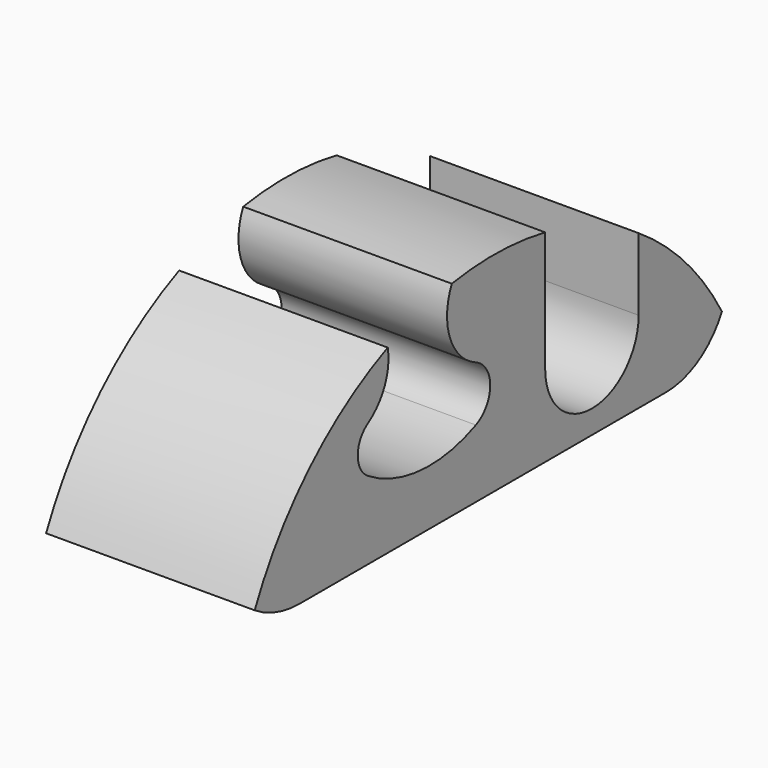
from build123d import *

# Parameters (mm, degrees)
F1_DEPTH = 50


with BuildPart() as f1:
    # F0 (on Right) → F1 (new body)
    with BuildSketch(Plane.YZ):
        with BuildLine():
            ThreePointArc((-24.585284, 43.334647), (-48.122106, 27.371663), (-64.454145, 4.08941))
            ThreePointArc((-64.454145, 4.08941), (-57.954836, 1.044472), (-50.854008, 0))
            Line((-50.854008, 0), (58.835812, 0))
            ThreePointArc((58.835812, 0), (68.633563, 2.762151), (75.545855, 10.235144))
            ThreePointArc((75.545855, 10.235144), (64.637558, 25.042177), (50.592381, 36.915346))
            Line((50.592381, 36.915346), (50.592381, 19.576271))
            ThreePointArc((50.592381, 19.576271), (36.592381, 5.576271), (22.592381, 19.576271))
            Line((22.592381, 19.576271), (22.592381, 48.465563))
            ThreePointArc((22.592381, 48.465563), (8.629859, 49.98557), (-5.380614, 49.001137))
            ThreePointArc((-5.380614, 49.001137), (-5.913674, 37.712167), (1.817062, 29.468337))
            ThreePointArc((1.817062, 29.468337), (6.116007, 22.860192), (1.817062, 16.252047))
            ThreePointArc((1.817062, 16.252047), (-14.646778, 13.397307), (-30.510783, 18.645252))
            ThreePointArc((-30.510783, 18.645252), (-33.56923, 24.205725), (-30.510783, 29.766198))
            ThreePointArc((-30.510783, 29.766198), (-25.471745, 35.643683), (-24.585284, 43.334647))
        make_face()
    extrude(amount=F1_DEPTH)


solid = f1.part
